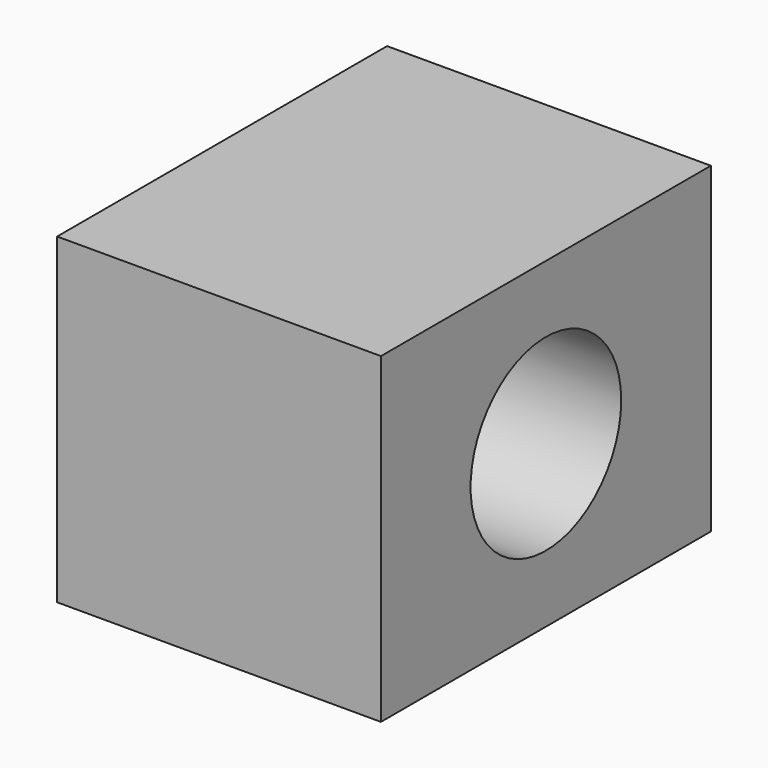
from build123d import *

# Parameters (mm, degrees)
F0_W     = 108.930484
F0_H     = 85.066848
F0_R     = 24.8637
F1_DEPTH = 85.53001


with BuildPart() as f1:
    # F0 (on Right) → F1 (new body)
    with BuildSketch(Plane.YZ):
        Rectangle(F0_W, F0_H)
        Circle(F0_R, mode=Mode.SUBTRACT)
    extrude(amount=-F1_DEPTH)


solid = f1.part
